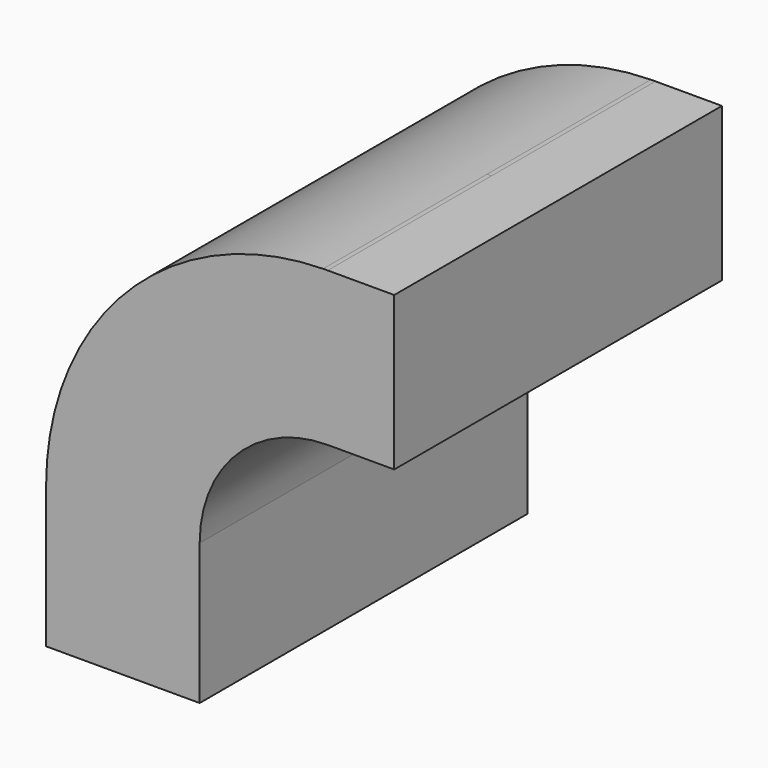
from build123d import *

# Parameters (mm, degrees)
F1_DEPTH = 25.4


with BuildPart() as f1:
    # F0 (on Front) → F1 (new body, symmetric)
    with BuildSketch(Plane.XZ):
        with BuildLine():
            Line((22.225, 9.525), (41.275, 9.525))
            Line((41.275, 9.525), (41.275, 27.0002))
            ThreePointArc((41.275, 27.0002), (45.92468, 38.22552), (57.15, 42.8752))
            Line((57.15, 42.8752), (65.405, 42.8752))
            Line((65.405, 42.8752), (65.405, 61.9252))
            Line((65.405, 61.9252), (57.15, 61.9252))
            add(Edge.make_bspline(
                [(56.590509, 61.920718), (56.776833, 61.922454), (56.963331, 61.923948), (57.15, 61.9252)],
                knots=[111.140328, 111.140328, 111.140328, 111.140328, 111.504536, 111.504536, 111.504536, 111.504536], degree=3))
            ThreePointArc((56.590509, 61.920718), (32.257272, 51.497296), (22.225, 27.0002))
            Line((22.225, 27.0002), (22.225, 9.525))
        make_face()
    extrude(amount=F1_DEPTH, both=True)


solid = f1.part
